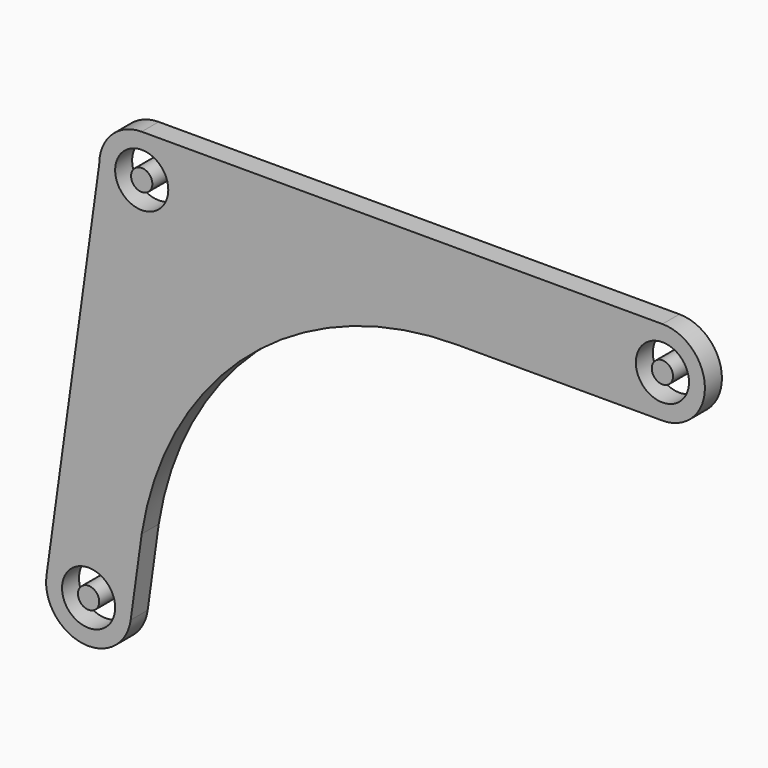
from build123d import *

# Parameters (mm, degrees)
F0_R     = 2.5
F1_DEPTH = 2
F2_R     = 1
F3_DEPTH = 2


with BuildPart() as f1:
    # F0 (on Front) → F1 (new body)
    with BuildSketch(Plane.XZ):
        with BuildLine():
            ThreePointArc((-4, 0), (0, -4), (4, 0))
            ThreePointArc((4, 0), (2.828427, 2.828427), (0, 4))
            ThreePointArc((0, 4), (-2.828427, 2.828427), (-4, 0))
        make_face()
        Circle(F0_R, mode=Mode.SUBTRACT)
        with BuildLine():
            ThreePointArc((0, 4), (2.828427, 2.828427), (4, 0))
            ThreePointArc((4, 0), (0, -4), (-4, 0))
            Line((-4, 0), (-8.961892, -35.689175))
            ThreePointArc((-8.961892, -35.689175), (-5.550825, -40.201892), (-1.038108, -36.790825))
            Line((-1.038108, -36.790825), (0, -29.324077))
            ThreePointArc((0, -29.324077), (10.143328, -11.193447), (29.633355, -4))
            Line((29.633355, -4), (49, -4))
            ThreePointArc((49, -4), (53, 0), (49, 4))
            Line((49, 4), (0, 4))
        make_face()
        with Locations((-5, -36.24)):
            Circle(F0_R, mode=Mode.SUBTRACT)
        with Locations((49, 0)):
            Circle(F0_R, mode=Mode.SUBTRACT)
    extrude(amount=F1_DEPTH)


with BuildPart() as f3:
    # F2 (on Front) → F3 (new body)
    with BuildSketch(Plane.XZ):
        Circle(F2_R)
        with Locations((49, 0)):
            Circle(F2_R)
        with Locations((-5, -36.24)):
            Circle(F2_R)
    extrude(amount=F3_DEPTH)


solid = Compound([f1.part, f3.part])
